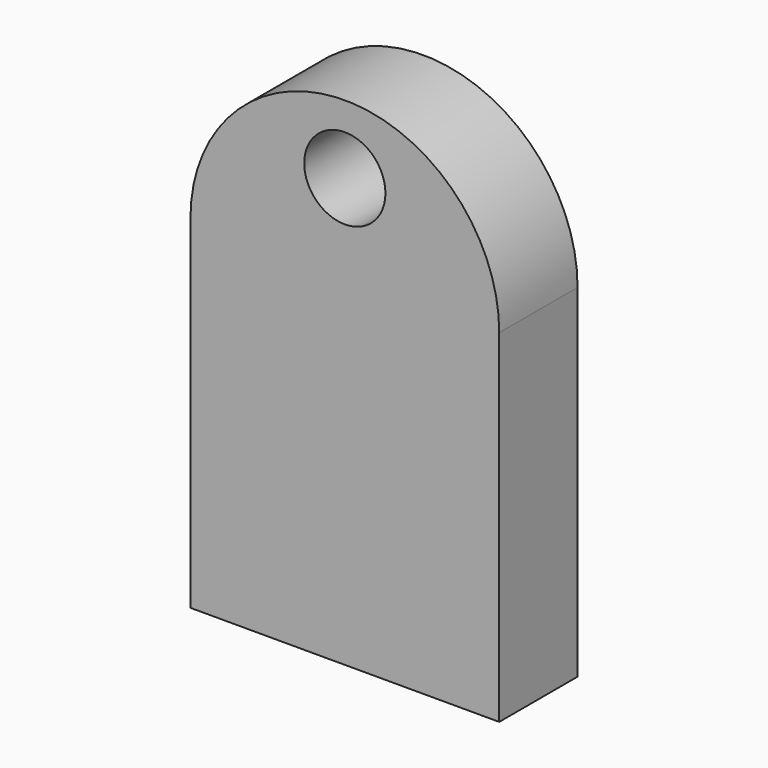
from build123d import *

# Parameters (mm, degrees)
F0_R     = 10.530807
F0_W     = 80.109231
F0_H     = 88.9
F1_DEPTH = 25.4


with BuildPart() as f1:
    # F0 (on Front) → F1 (new body)
    with BuildSketch(Plane.XZ):
        with BuildLine():
            ThreePointArc((47.640182, 31.529863), (7.585566, 71.584478), (-32.469049, 31.529863))
            Line((-32.469049, 31.529863), (47.640182, 31.529863))
        make_face()
        with Locations((7.585566, 53.75486)):
            Circle(F0_R, mode=Mode.SUBTRACT)
        with Locations((7.585566, -12.920137)):
            Rectangle(F0_W, F0_H)
    extrude(amount=F1_DEPTH)


solid = f1.part
